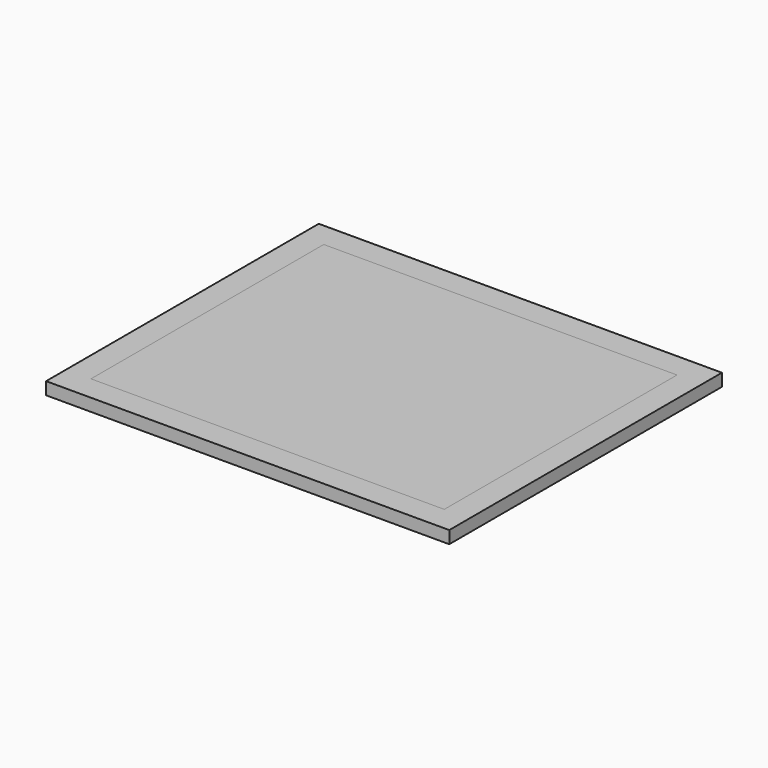
from build123d import *

# Parameters (mm, degrees)
F0_W     = 8500
F0_H     = 7000
F1_DEPTH = 300
F2_W     = 9700
F2_H     = 8200
F2_W_2   = 8500
F2_H_2   = 7000
F3_DEPTH = 300


with BuildPart() as f1:
    # F0 (on Top) → F1 (new body)
    with BuildSketch(Plane.XY):
        with Locations((4250, 3500)):
            Rectangle(F0_W, F0_H)
    extrude(amount=F1_DEPTH)


with BuildPart() as f3:
    # F2 (on Top) → F3 (new body, through all)
    with BuildSketch(Plane.XY):
        with Locations((4250, 3500)):
            Rectangle(F2_W, F2_H)
        with Locations((4250, 3500)):
            Rectangle(F2_W_2, F2_H_2, mode=Mode.SUBTRACT)
    extrude(amount=F3_DEPTH)


solid = Compound([f1.part, f3.part])
